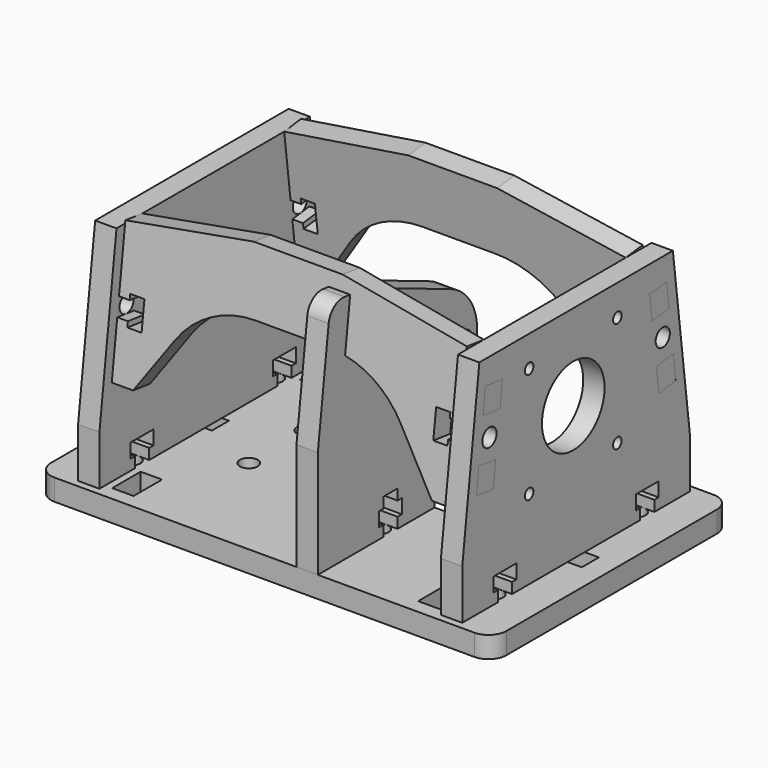
from build123d import *

# Parameters (mm, degrees)
F0_W      = 6
F0_H      = 10
F0_R      = 2.5
F0_H_2    = 8
F0_H_3    = 14
F0_W_2    = 8
F0_H_4    = 5
F0_W_3    = 12
F0_H_5    = 6
F1_DEPTH  = 6
F2_R      = 2.5
F3_DEPTH  = 6
F6_DEPTH  = 6
F9_R      = 11
F9_R_2    = 1.5
F10_DEPTH = 6
F11_R     = 1.5
F11_R_2   = 8
F12_DEPTH = 6
F14_DEPTH = 69


with BuildPart() as f1:
    # F0 (on Top) → F1 (new body)
    with BuildSketch(Plane.XY):
        with BuildLine():
            Line((-43, 42), (-59, 42))
            ThreePointArc((-59, 42), (-62.5355339059, 40.5355339059), (-64, 37))
            Line((-64, 37), (-64, -37))
            ThreePointArc((-64, -37), (-62.5355339059, -40.5355339059), (-59, -42))
            Line((-59, -42), (59, -42))
            ThreePointArc((59, -42), (62.5355339059, -40.5355339059), (64, -37))
            Line((64, -37), (64, 37))
            ThreePointArc((64, 37), (62.5355339059, 40.5355339059), (59, 42))
            Line((59, 42), (43, 42))
            ThreePointArc((43, 42), (39.4644660941, 40.5355339059), (38, 37))
            Line((38, 37), (38, 23))
            ThreePointArc((38, 23), (36.5355339059, 19.4644660941), (33, 18))
            Line((33, 18), (22.2, 18))
            ThreePointArc((22.2, 18), (21.3514718626, 17.6485281374), (21, 16.8))
            Line((21, 16.8), (21, 15.3738635424))
            ThreePointArc((21, 15.3738635424), (21.5443360566, 13.10515051), (23.0588235294, 11.3304143998))
            ThreePointArc((23.0588235294, 11.3304143998), (24.5, 8.5), (23.0588235294, 5.6695856002))
            ThreePointArc((23.0588235294, 5.6695856002), (21.5443360566, 3.89484949), (21, 1.6261364576))
            Line((21, 1.6261364576), (21, -1))
            Line((21, -1), (-21, -1))
            Line((-21, -1), (-21, 1.6261364576))
            ThreePointArc((-21, 1.6261364576), (-21.5443360566, 3.89484949), (-23.0588235294, 5.6695856002))
            ThreePointArc((-23.0588235294, 5.6695856002), (-24.5, 8.5), (-23.0588235294, 11.3304143998))
            ThreePointArc((-23.0588235294, 11.3304143998), (-21.5443360566, 13.10515051), (-21, 15.3738635424))
            Line((-21, 15.3738635424), (-21, 16.8))
            ThreePointArc((-21, 16.8), (-21.3514718626, 17.6485281374), (-22.2, 18))
            Line((-22.2, 18), (-33, 18))
            ThreePointArc((-33, 18), (-36.5355339059, 19.4644660941), (-38, 23))
            Line((-38, 23), (-38, 37))
            ThreePointArc((-38, 37), (-39.4644660941, 40.5355339059), (-43, 42))
        make_face()
        with Locations((-43, -33)):
            Rectangle(F0_W, F0_H, mode=Mode.SUBTRACT)
        with Locations((-51, -25)):
            Circle(F0_R, mode=Mode.SUBTRACT)
        with Locations((-51, -16)):
            Rectangle(F0_W, F0_H_2, mode=Mode.SUBTRACT)
        with Locations((-30, -10)):
            Circle(F0_R, mode=Mode.SUBTRACT)
        with Locations((12, -29)):
            Rectangle(F0_W, F0_H_3, mode=Mode.SUBTRACT)
        with Locations((43, -33)):
            Rectangle(F0_W, F0_H, mode=Mode.SUBTRACT)
        with Locations((51, -25)):
            Circle(F0_R, mode=Mode.SUBTRACT)
        with Locations((12, -16.5)):
            Circle(F0_R, mode=Mode.SUBTRACT)
        with Locations((0, -8.2)):
            Rectangle(F0_W_2, F0_H, mode=Mode.SUBTRACT)
        with Locations((12, -7)):
            Rectangle(F0_W, F0_H_4, mode=Mode.SUBTRACT)
        with Locations((30, -10)):
            Circle(F0_R, mode=Mode.SUBTRACT)
        with Locations((51, -16)):
            Rectangle(F0_W, F0_H_2, mode=Mode.SUBTRACT)
        with Locations((-52, 0)):
            Rectangle(F0_W_3, F0_H_5, mode=Mode.SUBTRACT)
        with Locations((-51, 16)):
            Rectangle(F0_W, F0_H_2, mode=Mode.SUBTRACT)
        with Locations((-30, 10)):
            Circle(F0_R, mode=Mode.SUBTRACT)
        with Locations((-51, 25)):
            Circle(F0_R, mode=Mode.SUBTRACT)
        with Locations((-43, 33)):
            Rectangle(F0_W, F0_H, mode=Mode.SUBTRACT)
        with Locations((30, 10)):
            Circle(F0_R, mode=Mode.SUBTRACT)
        with Locations((52, 0)):
            Rectangle(F0_W_3, F0_H_5, mode=Mode.SUBTRACT)
        with Locations((51, 16)):
            Rectangle(F0_W, F0_H_2, mode=Mode.SUBTRACT)
        with Locations((51, 25)):
            Circle(F0_R, mode=Mode.SUBTRACT)
        with Locations((43, 33)):
            Rectangle(F0_W, F0_H, mode=Mode.SUBTRACT)
    extrude(amount=F1_DEPTH)


with BuildPart() as f3:
    # F2 (on face) → F3 (new body, through all)
    with BuildSketch(Plane(origin=(-48, 0, 0), x_dir=(0, -1, 0), z_dir=(-1, 0, 0))):
        Polygon((-22.5, 9), (-22.5, 6), (-20, 6), (-20, 0), (-12, 0), (-12, 6), (12, 6), (12, 0), (20, 0), (20, 6), (22.5, 6), (22.5, 9), (21, 9), (21, 13), (29, 13), (29, 9), (27.5, 9), (27.5, 6), (40, 6), (40, 20), (34, 68), (-34, 68), (-40, 20), (-40, 6), (-27.5, 6), (-27.5, 9), (-29, 9), (-29, 13), (-21, 13), (-21, 9), align=None)
        Polygon((-35.0425918686, 35.4724918065), (-34.1743487265, 42.4184369435), (-28.2206814662, 41.674228536), (-29.0889246083, 34.728283399), align=None, mode=Mode.SUBTRACT)
        with Locations((-30.4533066888, 48)):
            Circle(F2_R, mode=Mode.SUBTRACT)
        Polygon((-26.7322646511, 53.5815630565), (-32.6859319114, 54.325771464), (-31.8176887693, 61.271716601), (-25.864021509, 60.5275081935), align=None, mode=Mode.SUBTRACT)
        Polygon((28.2206814662, 41.674228536), (34.1743487265, 42.4184369435), (35.0425918686, 35.4724918065), (29.0889246083, 34.728283399), align=None, mode=Mode.SUBTRACT)
        with Locations((30.4533066888, 48)):
            Circle(F2_R, mode=Mode.SUBTRACT)
        Polygon((31.8176887693, 61.271716601), (32.6859319114, 54.325771464), (26.7322646511, 53.5815630565), (25.864021509, 60.5275081935), align=None, mode=Mode.SUBTRACT)
    extrude(amount=F3_DEPTH)


with BuildPart() as f4_1:
    # F4: instance of F3
    add(f3.part.mirror(Plane.YZ))

    # F9 (on face) → F10 (cut, through all)
    with BuildSketch(Plane.YZ.offset(54)):
        with Locations((-1, 43.85)):
            Circle(F9_R)
        with Locations((-16.5, 59.35)):
            Circle(F9_R_2)
        with Locations((-16.5, 28.35)):
            Circle(F9_R_2)
        with Locations((14.5, 28.35)):
            Circle(F9_R_2)
        with Locations((14.5, 59.35)):
            Circle(F9_R_2)
    extrude(amount=-F10_DEPTH, mode=Mode.SUBTRACT)


with BuildPart() as f6:
    # F5 (on face) → F6 (new body, through all)
    with BuildSketch(Plane(origin=(0, -32.9156529557, 4.1144566195), x_dir=(1, 0, 0), z_dir=(0, -0.9922778767, 0.1240347346))):
        with BuildLine():
            Line((-48, 56.8520702697), (-54, 56.8520702697))
            Line((-54, 56.8520702697), (-54, 49.8520702697))
            Line((-54, 49.8520702697), (-48, 49.8520702697))
            Line((-48, 49.8520702697), (-48, 46.3520702697))
            Line((-48, 46.3520702697), (-45, 46.3520702697))
            Line((-45, 46.3520702697), (-45, 47.8520702697))
            Line((-45, 47.8520702697), (-41, 47.8520702697))
            Line((-41, 47.8520702697), (-41, 39.8520702697))
            Line((-41, 39.8520702697), (-45, 39.8520702697))
            Line((-45, 39.8520702697), (-45, 41.3520702697))
            Line((-45, 41.3520702697), (-48, 41.3520702697))
            Line((-48, 41.3520702697), (-48, 37.8520702697))
            Line((-48, 37.8520702697), (-54, 37.8520702697))
            Line((-54, 37.8520702697), (-54, 30.8520702697))
            Line((-54, 30.8520702697), (-48, 30.8520702697))
            Line((-48, 30.8520702697), (-48, 25.8520702697))
            Line((-48, 25.8520702697), (-42, 25.8520702697))
            Line((-42, 25.8520702697), (-31.7362122144, 40.9801204718))
            ThreePointArc((-31.7362122144, 40.9801204718), (-22.3958626659, 49.3558788937), (-10.2207353896, 52.3827146405))
            Line((-10.2207353896, 52.3827146405), (10.2207353896, 52.3827146405))
            ThreePointArc((10.2207353896, 52.3827146405), (22.3958626659, 49.3558788937), (31.7362122144, 40.9801204718))
            Line((31.7362122144, 40.9801204718), (42, 25.8520702697))
            Line((42, 25.8520702697), (48, 25.8520702697))
            Line((48, 25.8520702697), (48, 30.8520702697))
            Line((48, 30.8520702697), (54, 30.8520702697))
            Line((54, 30.8520702697), (54, 37.8520702697))
            Line((54, 37.8520702697), (48, 37.8520702697))
            Line((48, 37.8520702697), (48, 41.3520702697))
            Line((48, 41.3520702697), (45, 41.3520702697))
            Line((45, 41.3520702697), (45, 39.8520702697))
            Line((45, 39.8520702697), (41, 39.8520702697))
            Line((41, 39.8520702697), (41, 47.8520702697))
            Line((41, 47.8520702697), (45, 47.8520702697))
            Line((45, 47.8520702697), (45, 46.3520702697))
            Line((45, 46.3520702697), (48, 46.3520702697))
            Line((48, 46.3520702697), (48, 49.8520702697))
            Line((48, 49.8520702697), (54, 49.8520702697))
            Line((54, 49.8520702697), (54, 56.8520702697))
            Line((54, 56.8520702697), (48, 56.8520702697))
            Line((48, 56.8520702697), (48, 64.3827146405))
            Line((48, 64.3827146405), (12.5, 70.3827146405))
            Line((12.5, 70.3827146405), (-12.5, 70.3827146405))
            Line((-12.5, 70.3827146405), (-48, 64.3827146405))
            Line((-48, 64.3827146405), (-48, 56.8520702697))
        make_face()
    extrude(amount=F6_DEPTH)


with BuildPart() as f7_1:
    # F7: instance of F6
    add(f6.part.mirror(Plane.XZ))


with BuildPart() as f12:
    # F11 (on face) → F12 (new body, through all)
    with BuildSketch(Plane(origin=(15, 0, 0), x_dir=(0, -1, 0), z_dir=(-1, 0, 0))):
        with BuildLine():
            Line((22, 0), (36, 0))
            Line((36, 0), (36, 6))
            Line((36, 6), (42, 6))
            Line((42, 6), (42, 36.2490309932))
            Line((42, 36.2490309932), (38.2016766342, 66.6356179195))
            ThreePointArc((38.2016766342, 66.6356179195), (36.3099903182, 69.9622053335), (32.6201135777, 70.9768336301))
            Line((32.6201135777, 70.9768336301), (30.6355578243, 70.728764161))
            Line((30.6355578243, 70.728764161), (31.8759051702, 60.8059853938))
            Line((31.8759051702, 60.8059853938), (25.9222379099, 60.0617769863))
            Line((25.9222379099, 60.0617769863), (24.681890564, 69.9845557534))
            Line((24.681890564, 69.9845557534), (-4.7760785324, 57.6932986238))
            ThreePointArc((-4.7760785324, 57.6932986238), (-13.9618855487, 42.7813649701), (-2.75, 29.3263124517))
            ThreePointArc((-2.75, 29.3263124517), (-0.0471529248, 27.5469454474), (1, 24.485083269))
            Line((1, 24.485083269), (1, 6))
            Line((1, 6), (4.5, 6))
            Line((4.5, 6), (4.5, 0))
            Line((4.5, 0), (9.5, 0))
            Line((9.5, 0), (9.5, 6))
            Line((9.5, 6), (14, 6))
            Line((14, 6), (14, 9))
            Line((14, 9), (12.5, 9))
            Line((12.5, 9), (12.5, 13))
            Line((12.5, 13), (14, 13))
            Line((14, 13), (14, 16))
            Line((14, 16), (19, 16))
            Line((19, 16), (19, 13))
            Line((19, 13), (20.5, 13))
            Line((20.5, 13), (20.5, 9))
            Line((20.5, 9), (19, 9))
            Line((19, 9), (19, 6))
            Line((19, 6), (22, 6))
            Line((22, 6), (22, 0))
        make_face()
        with Locations((6.6, 34.1505154776)):
            Circle(F11_R, mode=Mode.SUBTRACT)
        with Locations((-10.2, 43.85)):
            Circle(F11_R, mode=Mode.SUBTRACT)
        with Locations((1, 43.85)):
            Circle(F11_R_2, mode=Mode.SUBTRACT)
        with Locations((6.6, 53.5494845224)):
            Circle(F11_R, mode=Mode.SUBTRACT)
    extrude(amount=F12_DEPTH)


with BuildPart() as f6_1:
    add(f6.part)

    # F13: cut F12
    add(f12.part, mode=Mode.SUBTRACT)


with BuildPart() as f3_1:
    add(f3.part)

    # F11 (on face) → F14 (cut, through all)
    with BuildSketch(Plane(origin=(15, 0, 0), x_dir=(0, -1, 0), z_dir=(-1, 0, 0))):
        with Locations((6.6, 53.5494845224)):
            Circle(F11_R)
        with Locations((-10.2, 43.85)):
            Circle(F11_R)
        with Locations((6.6, 34.1505154776)):
            Circle(F11_R)
        with Locations((1, 43.85)):
            Circle(F11_R_2)
    extrude(amount=F14_DEPTH, mode=Mode.SUBTRACT)


solid = Compound([f1.part, f4_1.part, f7_1.part, f12.part, f6_1.part, f3_1.part])
